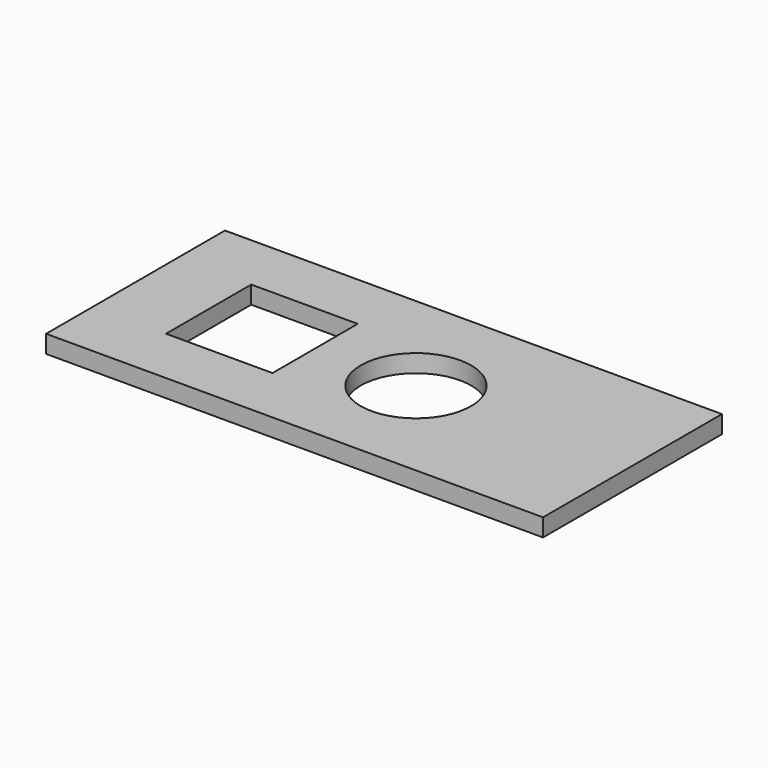
from build123d import *

# Parameters (mm, degrees)
F0_W     = 35.56
F0_H     = 16.002
F1_DEPTH = 1.27
F3_D     = 7.8994
F4_DEPTH = 1.271


with BuildPart() as f1:
    # F0 (on Top) → F1 (new body)
    with BuildSketch(Plane.XY):
        Rectangle(F0_W, F0_H)
    extrude(amount=F1_DEPTH)

    # F3 (through all)
    with Locations(Plane(origin=(0, 0, 0), x_dir=(1, 0, 0), z_dir=(0, 0, -1))):
        with Locations((2.286, 0)):
            Hole(F3_D / 2)

    # F2 (on face) → F4 (cut, through all)
    with BuildSketch(Plane(origin=(0, 0, 0), x_dir=(1, 0, 0), z_dir=(0, 0, -1))):
        Polygon((-12.55014, 3.81), (-12.55014, 0), (-8.74014, 0), (-4.93014, 0), (-4.93014, 3.81), align=None)
        Polygon((-8.74014, 0), (-12.55014, 0), (-12.55014, -3.81), (-4.93014, -3.81), (-4.93014, 0), align=None)
    extrude(amount=-F4_DEPTH, mode=Mode.SUBTRACT)


solid = f1.part
